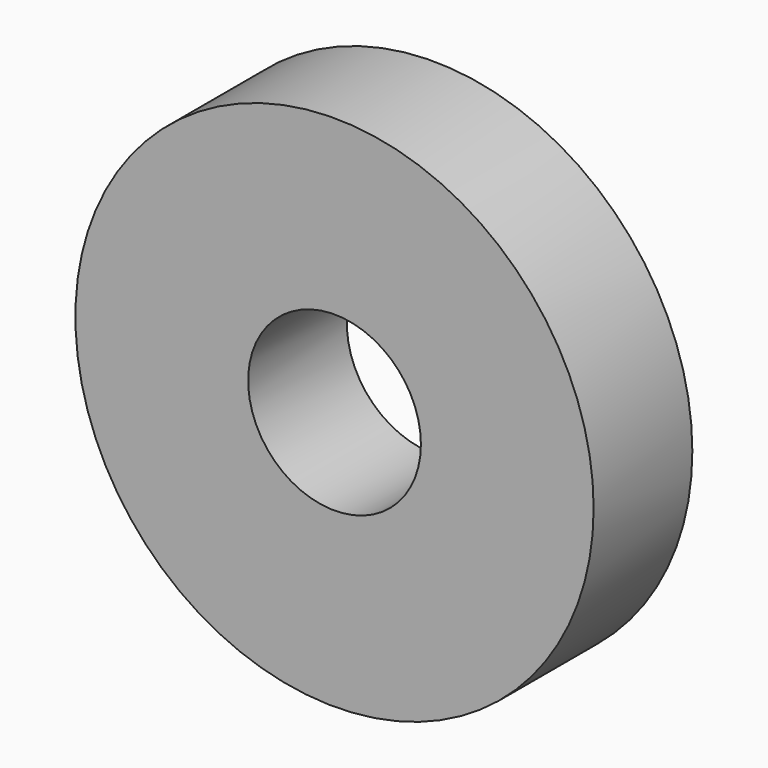
from build123d import *

# Parameters (mm, degrees)
CYLINDER013_R                = 3.5
CYLINDER013_DEPTH            = 10
CYLINDER012_R                = 10.5
CYLINDER012_DEPTH            = 5
CUT005014015_PLACEMENT_ANGLE = 90


with BuildPart() as cylinder013:
    # Cylinder013 → Cylinder013 (new body)
    with BuildSketch(Plane.XY.offset(-3)):
        Circle(CYLINDER013_R)
    extrude(amount=CYLINDER013_DEPTH)


with BuildPart() as obj1:
    # Cylinder012 → Cylinder012 (new body)
    with BuildSketch(Plane.XY):
        Circle(CYLINDER012_R)
    extrude(amount=CYLINDER012_DEPTH)

    # Cut005014015: cut Cylinder013
    add(cylinder013.part, mode=Mode.SUBTRACT)


with BuildPart() as obj1_1:
    # Cut005014015 placement: moved
    add(obj1.part.moved(Location((89, 0.5, 10.4))).rotate(Axis((89, 0.5, 10.4), (1, 0, 0)), CUT005014015_PLACEMENT_ANGLE))


solid = obj1_1.part
